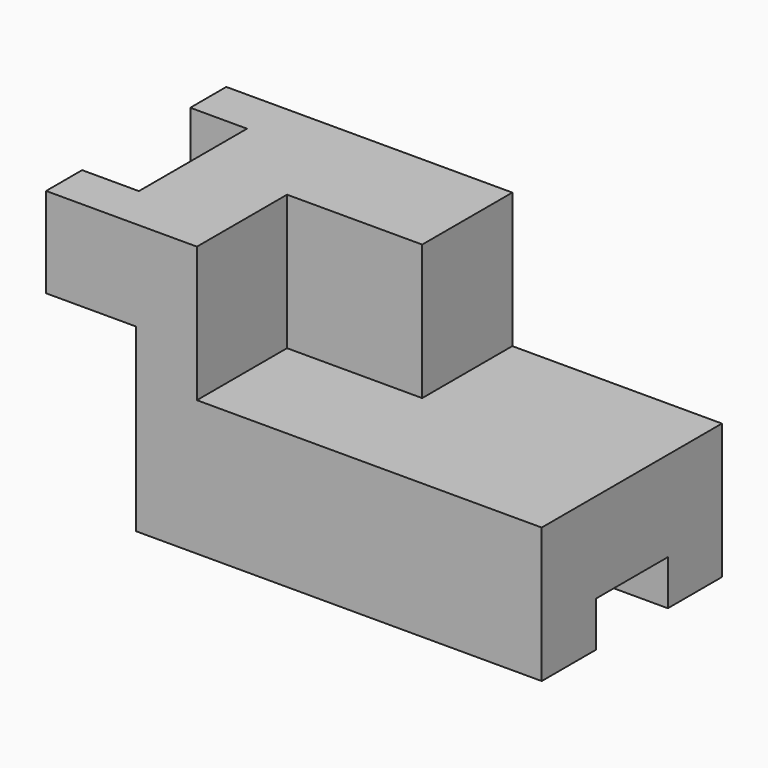
from build123d import *

# Parameters (mm, degrees)
F1_W     = 22.3188386493
F1_H     = 30
F2_DEPTH = 50
F3_W     = 30
F3_H     = 25
F4_DEPTH = 30
F5_W     = 12.6015079648
F5_H     = 30
F6_DEPTH = 60
F7_W     = 90
F7_H     = 20
F8_DEPTH = 10


with BuildPart() as f2:
    # F1 (on Front) → F2 (new body)
    with BuildSketch(Plane.XZ):
        Polygon((20, 40), (20, 0), (110, 0), (110, 30), (63.4782647698, 30), (41.1594261205, 30), (41.1594261205, 60), (0, 60), (0, 40), align=None)
        with Locations((52.3188454451, 45)):
            Rectangle(F1_W, F1_H)
    extrude(amount=-F2_DEPTH)

    # F3 (on face) → F4 (cut)
    with BuildSketch(Plane.XY.offset(60)):
        with Locations((48.4782647698, 12.5)):
            Rectangle(F3_W, F3_H)
    extrude(amount=-F4_DEPTH, mode=Mode.SUBTRACT)

    # F5 (on face) → F6 (cut)
    with BuildSketch(Plane.XY.offset(60)):
        with Locations((6.3007539824, 25)):
            Rectangle(F5_W, F5_H)
    extrude(amount=-F6_DEPTH, mode=Mode.SUBTRACT)

    # F7 (on face) → F8 (cut)
    with BuildSketch(Plane(origin=(0, 0, 0), x_dir=(1, 0, 0), z_dir=(0, 0, -1))):
        with Locations((65, -25)):
            Rectangle(F7_W, F7_H)
        with Locations((65, -25)):
            Rectangle(F7_W, F7_H)
    extrude(amount=-F8_DEPTH, mode=Mode.SUBTRACT)


solid = f2.part
